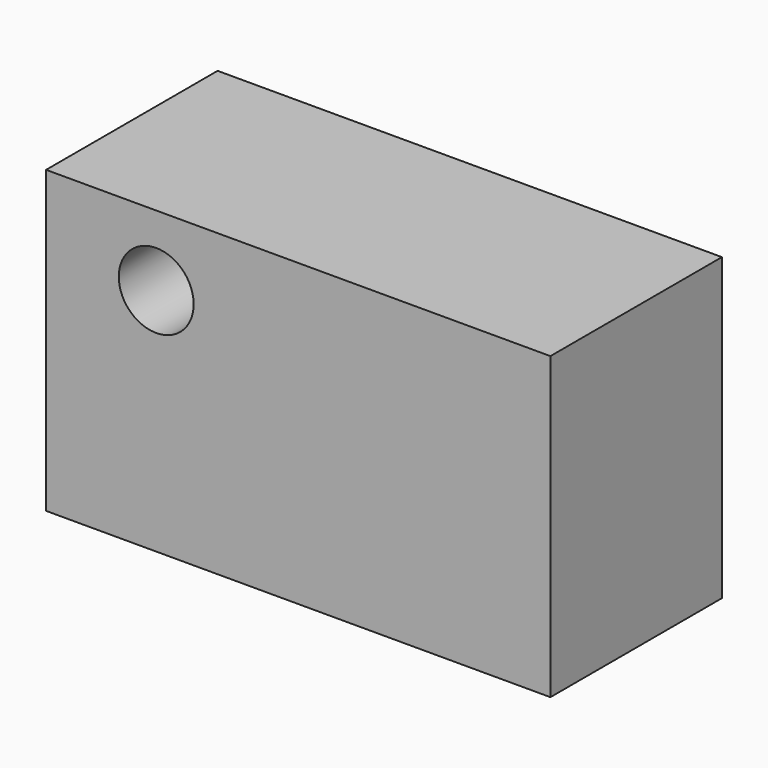
from build123d import *

# Parameters (mm, degrees)
F0_W     = 11.761363
F0_H     = 7.002518
F3_DEPTH = 5
F2_R     = 0.873235
F4_DEPTH = 25


with BuildPart() as f3:
    # F0 (on Front) → F3 (new body)
    with BuildSketch(Plane.XZ):
        with Locations((-23.267047, 26.095882)):
            Rectangle(F0_W, F0_H)
    extrude(amount=F3_DEPTH)

    # F2 (on face) → F4 (cut)
    with BuildSketch(Plane.XZ):
        with Locations((-26.579017, 27.955031)):
            Circle(F2_R)
    extrude(amount=F4_DEPTH, mode=Mode.SUBTRACT)


solid = f3.part
